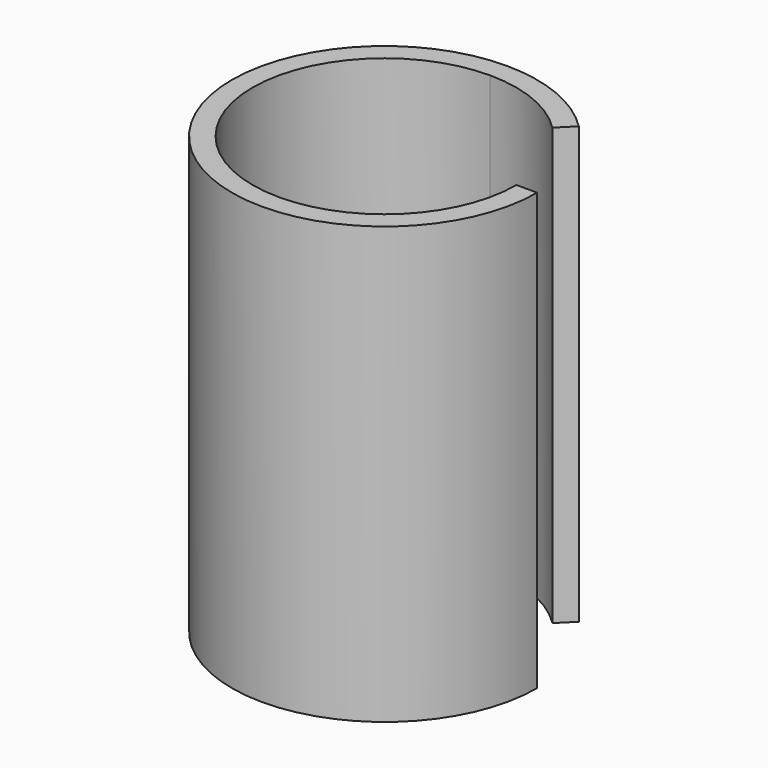
from build123d import *

# Parameters (mm, degrees)
F1_DEPTH = 20


with BuildPart() as f1:
    # F0 (on Top) → F1 (new body)
    with BuildSketch(Plane.XY):
        with BuildLine():
            ThreePointArc((4.949747, 4.949747), (2.678784, 6.467157), (0, 7))
            Line((0, 7), (0, 6.05))
            ThreePointArc((0, 6.05), (2.315235, 5.589471), (4.277996, 4.277996))
            Line((4.277996, 4.277996), (4.949747, 4.949747))
        make_face()
        with BuildLine():
            Line((0, 6.05), (0, 7))
            ThreePointArc((0, 7), (-4.949747, -4.949747), (7, 0))
            Line((7, 0), (6.05, 0))
            ThreePointArc((6.05, 0), (-4.277996, -4.277996), (0, 6.05))
        make_face()
    extrude(amount=F1_DEPTH)


solid = f1.part
